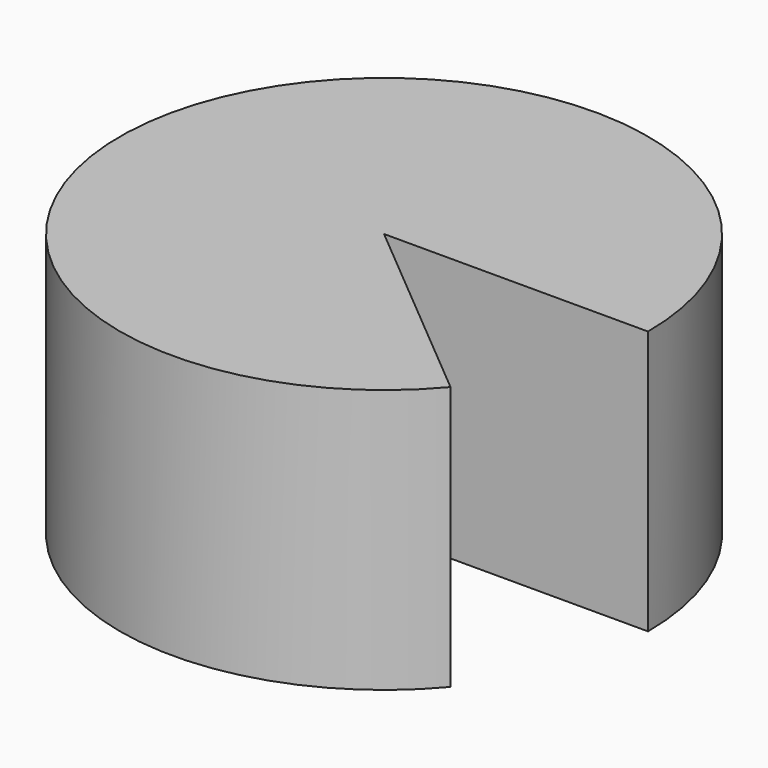
from build123d import *

# Parameters (mm, degrees)
CYLINDER_W     = 20
CYLINDER_H     = 20
CYLINDER_ANGLE = 320


with BuildPart() as part:
    # Cylinder → Cylinder (revolve)
    with BuildSketch(Plane.XZ):
        with Locations((10, 10)):
            Rectangle(CYLINDER_W, CYLINDER_H)
    revolve(axis=Axis((0, 0, 0), (0, 0, 1)), revolution_arc=CYLINDER_ANGLE)


solid = part.part
